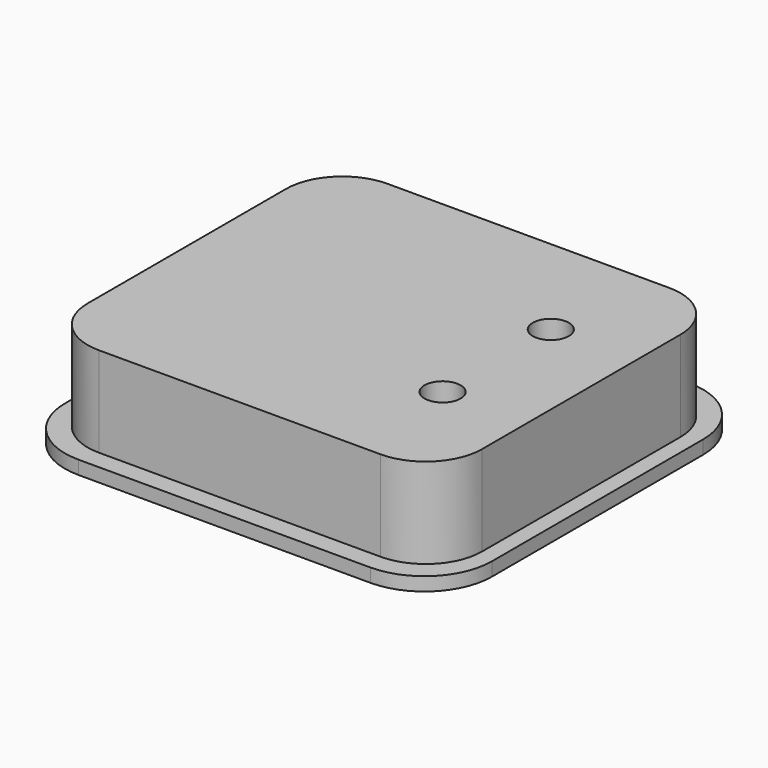
from build123d import *

# Parameters (mm, degrees)
F0_W     = 28.5
F0_H     = 21.5
F1_DEPTH = 1.2
F2_W     = 28.5
F2_H     = 21.5
F3_DEPTH = 6
F5_DEPTH = 2
F6_W     = 22
F6_H     = 6
F7_DEPTH = 3.25
F8_R     = 1.6
F9_DEPTH = 2


with BuildPart() as f1:
    # F0 (on Top) → F1 (new body)
    with BuildSketch(Plane.XY):
        with BuildLine():
            ThreePointArc((18.95, 11.7), (17.192641, 15.942641), (12.95, 17.7))
            Line((12.95, 17.7), (-12.95, 17.7))
            ThreePointArc((-12.95, 17.7), (-17.192641, 15.942641), (-18.95, 11.7))
            Line((-18.95, 11.7), (-18.95, -11.7))
            ThreePointArc((-18.95, -11.7), (-17.192641, -15.942641), (-12.95, -17.7))
            Line((-12.95, -17.7), (12.95, -17.7))
            ThreePointArc((12.95, -17.7), (17.192641, -15.942641), (18.95, -11.7))
            Line((18.95, -11.7), (18.95, 11.7))
        make_face()
        Rectangle(F0_W, F0_H, mode=Mode.SUBTRACT)
    extrude(amount=F1_DEPTH)

    # F2 (on face) → F3 (join)
    with BuildSketch(Plane.XY.offset(1.2)):
        with BuildLine():
            ThreePointArc((17.5, 11), (16.035534, 14.535534), (12.5, 16))
            Line((12.5, 16), (-12.5, 16))
            ThreePointArc((-12.5, 16), (-16.035534, 14.535534), (-17.5, 11))
            Line((-17.5, 11), (-17.5, -11))
            ThreePointArc((-17.5, -11), (-16.035534, -14.535534), (-12.5, -16))
            Line((-12.5, -16), (12.5, -16))
            ThreePointArc((12.5, -16), (16.035534, -14.535534), (17.5, -11))
            Line((17.5, -11), (17.5, 11))
        make_face()
        Rectangle(F2_W, F2_H, mode=Mode.SUBTRACT)
    extrude(amount=F3_DEPTH)

    # F4 (on face) → F5 (join)
    with BuildSketch(Plane.XY.offset(7.2)):
        with BuildLine():
            ThreePointArc((17.5, 11), (16.035534, 14.535534), (12.5, 16))
            Line((12.5, 16), (-12.5, 16))
            ThreePointArc((-12.5, 16), (-16.035534, 14.535534), (-17.5, 11))
            Line((-17.5, 11), (-17.5, -11))
            ThreePointArc((-17.5, -11), (-16.035534, -14.535534), (-12.5, -16))
            Line((-12.5, -16), (12.5, -16))
            ThreePointArc((12.5, -16), (16.035534, -14.535534), (17.5, -11))
            Line((17.5, -11), (17.5, 11))
        make_face()
    extrude(amount=F5_DEPTH)

    # F6 (on face) → F7 (cut, through all)
    with BuildSketch(Plane(origin=(-17.5, 0, 0), x_dir=(0, -1, 0), z_dir=(-1, 0, 0))):
        with Locations((0, 4.2)):
            Rectangle(F6_W, F6_H)
    extrude(amount=-F7_DEPTH, mode=Mode.SUBTRACT)

    # F8 (on face) → F9 (cut, through all)
    with BuildSketch(Plane.XY.offset(9.2)):
        with Locations((10, 6)):
            Circle(F8_R)
        with Locations((10, -6)):
            Circle(F8_R)
    extrude(amount=-F9_DEPTH, mode=Mode.SUBTRACT)


solid = f1.part
